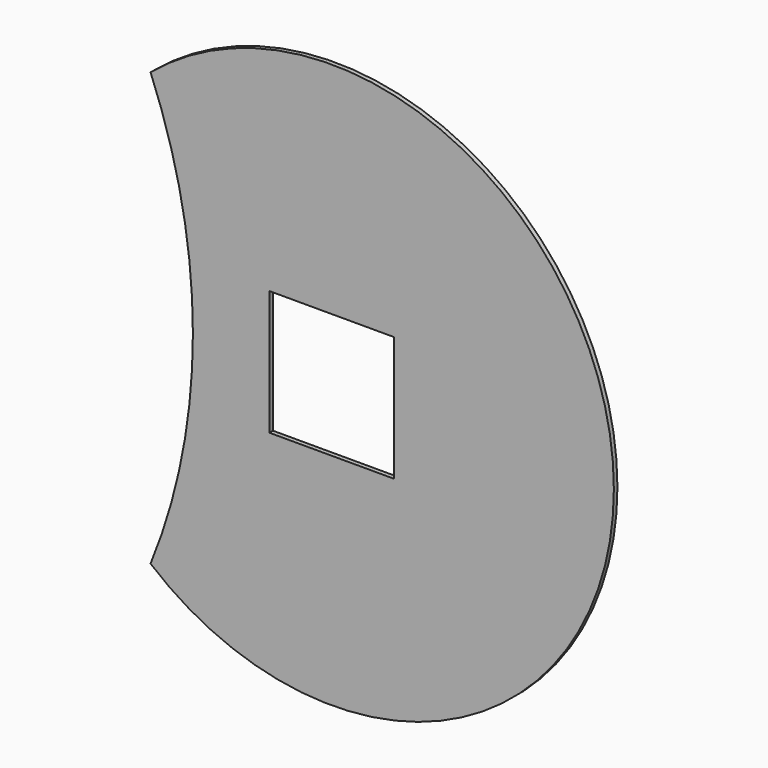
from build123d import *

# Parameters (mm, degrees)
F0_R     = 190
F1_DEPTH = 3
F2_W     = 42
F2_H     = 42
F3_DEPTH = 3.001
F5_DEPTH = 3.001


with BuildPart() as f1:
    # F0 (on Front) → F1 (new body)
    with BuildSketch(Plane.XZ):
        Circle(F0_R)
    extrude(amount=F1_DEPTH)

    # F2 (on face) → F3 (cut, through all)
    with BuildSketch(Plane.XZ.offset(3)):
        with Locations((-21, -21)):
            Rectangle(F2_W, F2_H)
        with Locations((21, -21)):
            Rectangle(F2_W, F2_H)
        with Locations((21, 21)):
            Rectangle(F2_W, F2_H)
        with Locations((-21, 21)):
            Rectangle(F2_W, F2_H)
    extrude(amount=-F3_DEPTH, mode=Mode.SUBTRACT)

    # F4 (on face) → F5 (cut, through all)
    with BuildSketch(Plane.XZ.offset(3)):
        with BuildLine():
            ThreePointArc((-122, -145.6571316483), (-100.6859205662, -74.2103602534), (-93.4919261309, 0))
            Line((-93.4919261309, 0), (-122, 0))
            Line((-122, 0), (-122, -145.6571316483))
        make_face()
        with BuildLine():
            Line((-122, 0), (-93.4919261309, 0))
            ThreePointArc((-93.4919261309, 0), (-100.6859205662, 74.2103602533), (-122, 145.6571316483))
            Line((-122, 145.6571316483), (-122, 0))
        make_face()
        with BuildLine():
            Line((-122, -145.6571316483), (-122, 0))
            Line((-122, 0), (-122, 145.6571316483))
            ThreePointArc((-122, 145.6571316483), (-190, 0), (-122, -145.6571316483))
        make_face()
    extrude(amount=-F5_DEPTH, mode=Mode.SUBTRACT)


solid = f1.part
